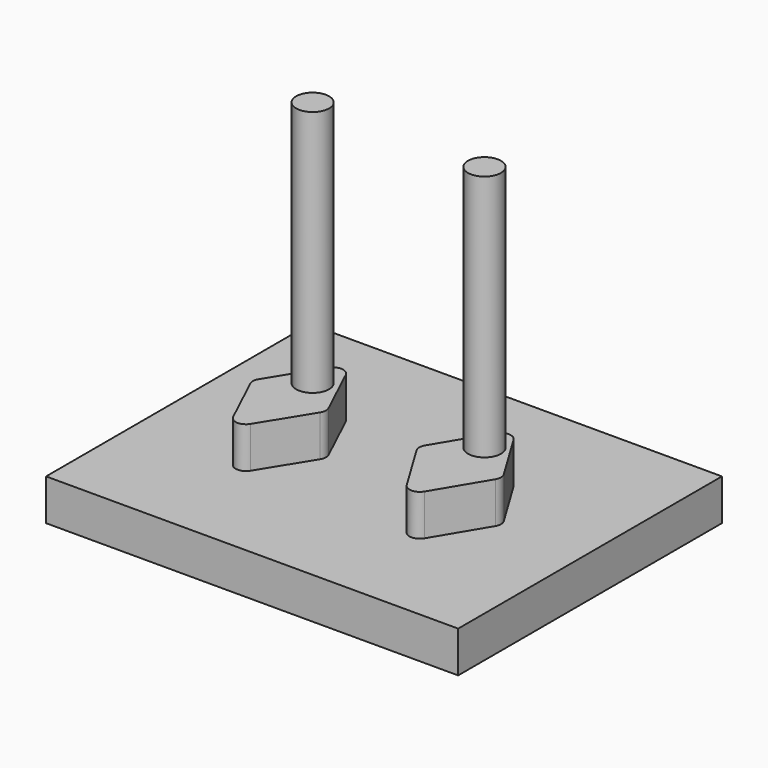
from build123d import *

# Parameters (mm, degrees)
F0_W     = 12.7
F0_H     = 10.16
F1_DEPTH = 1.27
F3_DEPTH = 1.27
F4_R     = 0.3175
F5_R     = 0.3175
F6_R     = 0.508
F7_DEPTH = 7.62
F8_R     = 0.508
F9_DEPTH = 7.62


with BuildPart() as f1:
    # F0 (on Top) → F1 (new body)
    with BuildSketch(Plane.XY):
        with Locations((6.35, -5.08)):
            Rectangle(F0_W, F0_H)
    extrude(amount=F1_DEPTH)

    # F2 (on face) → F3 (join)
    with BuildSketch(Plane.XY.offset(1.27)):
        Polygon((4.682481, -5.194736), (3.598544, -2.897633), (2.265116, -5.059477), (3.349053, -7.356579), align=None)
        Polygon((7.538687, -5.274285), (8.856249, -7.445835), (10.158128, -5.264846), (8.840566, -3.093297), align=None)
    extrude(amount=F3_DEPTH)

    # F4
    f4_edges = [f1.edges().sort_by_distance(p)[0] for p in [
        (3.349053, -7.356579, 1.905),
        (8.856249, -7.445835, 1.905),
    ]]
    fillet(f4_edges, radius=F4_R)

    # F5
    f5_edges = [f1.edges().sort_by_distance(p)[0] for p in [
        (7.538687, -5.274285, 1.905),
        (2.265116, -5.059477, 1.905),
        (3.598544, -2.897633, 1.905),
        (8.840566, -3.093297, 1.905),
        (10.158128, -5.264846, 1.905),
        (4.682481, -5.194736, 1.905),
    ]]
    fillet(f5_edges, radius=F5_R)

    # F6 (on face) → F7 (join)
    with BuildSketch(Plane.XY.offset(2.54)):
        with Locations((3.498474, -4.265051)):
            Circle(F6_R)
    extrude(amount=F7_DEPTH)

    # F8 (on face) → F9 (join)
    with BuildSketch(Plane.XY.offset(2.54)):
        with Locations((8.828444, -4.307084)):
            Circle(F8_R)
    extrude(amount=F9_DEPTH)


solid = f1.part
